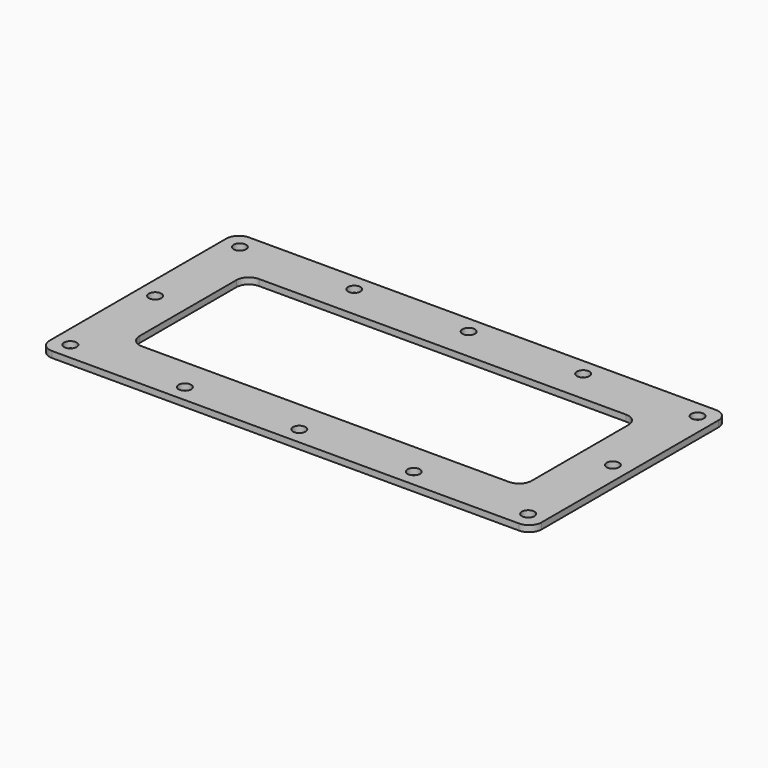
from build123d import *

# Parameters (mm, degrees)
F0_R     = 3.175
F1_DEPTH = 3.175


with BuildPart() as f1:
    # F0 (on Top) → F1 (new body)
    with BuildSketch(Plane.XY):
        with BuildLine():
            Line((118.650004, 62.500002), (-118.650004, 62.500002))
            ThreePointArc((-118.650004, 62.500002), (-123.140132, 60.64013), (-125.000004, 56.150002))
            Line((-125.000004, 56.150002), (-125.000004, -56.150002))
            ThreePointArc((-125.000004, -56.150002), (-123.140132, -60.64013), (-118.650004, -62.500002))
            Line((-118.650004, -62.500002), (118.650004, -62.500002))
            ThreePointArc((118.650004, -62.500002), (123.140132, -60.64013), (125.000004, -56.150002))
            Line((125.000004, -56.150002), (125.000004, 56.150002))
            ThreePointArc((125.000004, 56.150002), (123.140132, 60.64013), (118.650004, 62.500002))
        make_face()
        with Locations((-116.299996, -53.79999)):
            Circle(F0_R, mode=Mode.SUBTRACT)
        with Locations((-58.149998, -53.79999)):
            Circle(F0_R, mode=Mode.SUBTRACT)
        with Locations((-116.299996, -4e-06)):
            Circle(F0_R, mode=Mode.SUBTRACT)
        with Locations((0, -53.79999)):
            Circle(F0_R, mode=Mode.SUBTRACT)
        with Locations((58.149998, -53.79999)):
            Circle(F0_R, mode=Mode.SUBTRACT)
        with Locations((116.299996, -53.79999)):
            Circle(F0_R, mode=Mode.SUBTRACT)
        with Locations((116.299996, -4e-06)):
            Circle(F0_R, mode=Mode.SUBTRACT)
        with Locations((-116.299996, 53.79999)):
            Circle(F0_R, mode=Mode.SUBTRACT)
        with Locations((-58.149998, 53.79999)):
            Circle(F0_R, mode=Mode.SUBTRACT)
        with BuildLine():
            ThreePointArc((-99.600004, 30.750002), (-97.740132, 35.24013), (-93.250004, 37.100002))
            Line((-93.250004, 37.100002), (93.250004, 37.100002))
            ThreePointArc((93.250004, 37.100002), (97.740132, 35.24013), (99.600004, 30.750002))
            Line((99.600004, 30.750002), (99.600004, -30.750002))
            ThreePointArc((99.600004, -30.750002), (97.740132, -35.24013), (93.250004, -37.100002))
            Line((93.250004, -37.100002), (-93.250004, -37.100002))
            ThreePointArc((-93.250004, -37.100002), (-97.740132, -35.24013), (-99.600004, -30.750002))
            Line((-99.600004, -30.750002), (-99.600004, 30.750002))
        make_face(mode=Mode.SUBTRACT)
        with Locations((0, 53.79999)):
            Circle(F0_R, mode=Mode.SUBTRACT)
        with Locations((58.149998, 53.79999)):
            Circle(F0_R, mode=Mode.SUBTRACT)
        with Locations((116.299996, 53.79999)):
            Circle(F0_R, mode=Mode.SUBTRACT)
    extrude(amount=F1_DEPTH)


solid = f1.part
